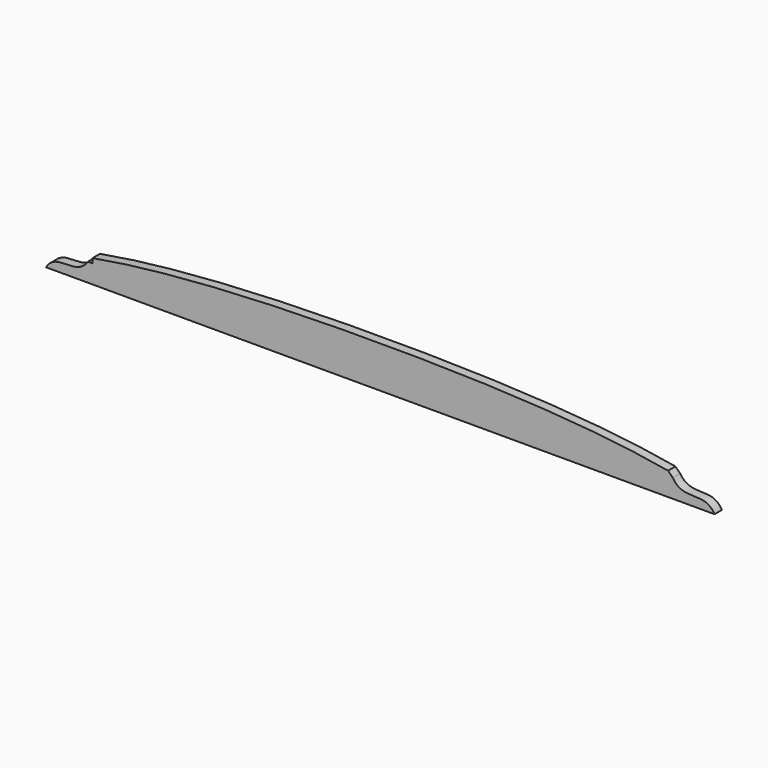
from build123d import *

# Parameters (mm, degrees)
F1_DEPTH = 12.7


with BuildPart() as f1:
    # F0 (on Front) → F1 (new body)
    with BuildSketch(Plane.XZ):
        with BuildLine():
            add(Edge.make_bspline(
                [(-400.043397, 25.4), (-407.850638, 13.3612), (-428.211533, 12.506524), (-450.21309, 12.425751), (-457.2, 0)],
                knots=[0, 0, 0, 0, 31.273141, 62.546281, 62.546281, 62.546281, 62.546281], degree=3))
            Line((-457.2, 0), (0, 0))
            Line((0, 0), (457.2, 0))
            add(Edge.make_bspline(
                [(400.043397, 25.4), (407.850638, 13.3612), (428.211533, 12.506524), (450.21309, 12.425751), (457.2, 0)],
                knots=[0, 0, 0, 0, 31.273141, 62.546281, 62.546281, 62.546281, 62.546281], degree=3))
            Line((400.043397, 25.4), (393.693397, 25.4))
            Line((393.693397, 25.4), (393.693397, 31.75))
            add(Edge.make_bspline(
                [(393.693397, 31.75), (284.791182, 51.571053), (136.11871, 57.15), (0, 57.15)],
                knots=[0, 0, 0, 0, 394.511915, 394.511915, 394.511915, 394.511915], degree=3))
            add(Edge.make_bspline(
                [(-393.693397, 31.75), (-284.791182, 51.571053), (-136.11871, 57.15), (0, 57.15)],
                knots=[0, 0, 0, 0, 394.511915, 394.511915, 394.511915, 394.511915], degree=3))
            Line((-393.693397, 31.75), (-393.693397, 25.4))
            Line((-393.693397, 25.4), (-400.043397, 25.4))
        make_face()
        Polygon((393.693397, 25.4), (400.043397, 25.4), (393.693397, 31.75), align=None)
    extrude(amount=F1_DEPTH)


solid = f1.part
